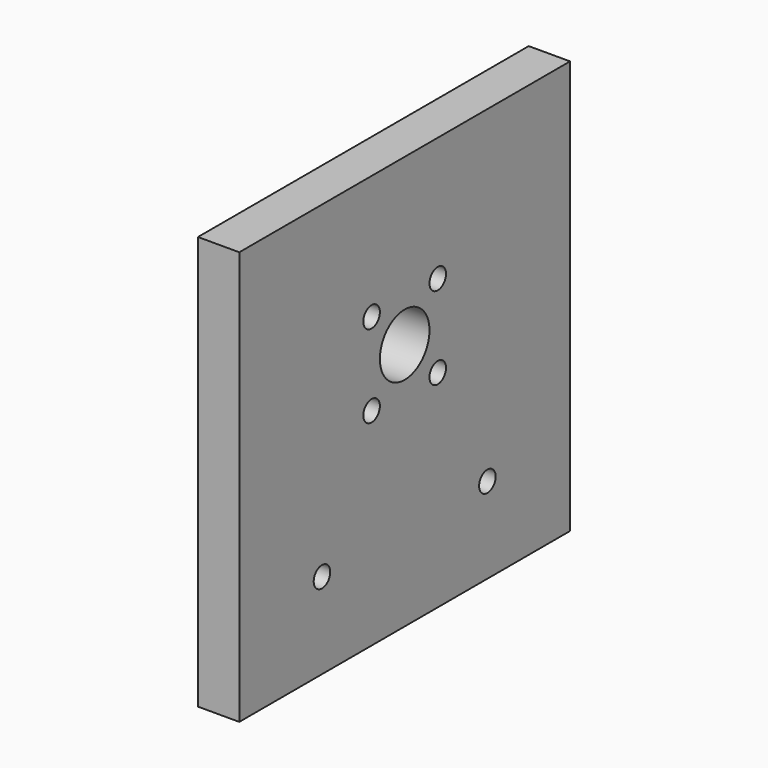
from build123d import *

# Parameters (mm, degrees)
F0_W     = 12.7
F0_H     = 127
F1_DEPTH = 63.5
F2_R     = 9.525
F2_R_2   = 3.175
F3_DEPTH = 12.701


with BuildPart() as f1:
    # F0 (on Front) → F1 (new body, symmetric)
    with BuildSketch(Plane.XZ):
        Rectangle(F0_W, F0_H)
    extrude(amount=F1_DEPTH, both=True)

    # F2 (on face) → F3 (cut, through all)
    with BuildSketch(Plane(origin=(-6.35, 0, 0), x_dir=(0, -1, 0), z_dir=(-1, 0, 0))):
        with Locations((0, 12.7)):
            Circle(F2_R)
        with Locations((-12.7, 25.4)):
            Circle(F2_R_2)
        with Locations((-12.7, 0)):
            Circle(F2_R_2)
        with Locations((12.7, 0)):
            Circle(F2_R_2)
        with Locations((12.7, 25.4)):
            Circle(F2_R_2)
        with Locations((-31.75, -37.1475)):
            Circle(F2_R_2)
        with Locations((31.75, -37.1475)):
            Circle(F2_R_2)
    extrude(amount=-F3_DEPTH, mode=Mode.SUBTRACT)


solid = f1.part
